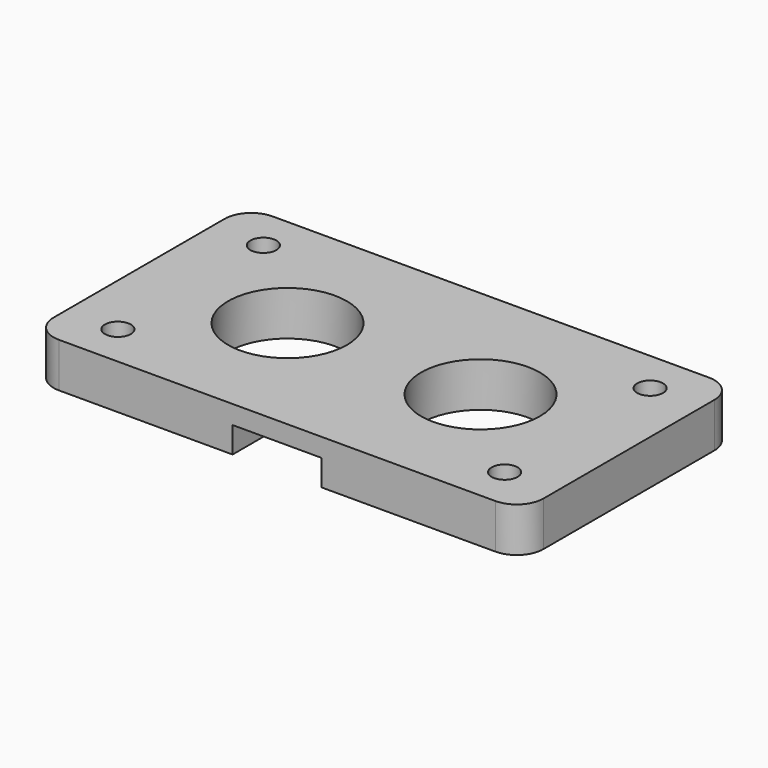
from build123d import *

# Parameters (mm, degrees)
F0_R     = 1.75
F0_R_2   = 8
F1_DEPTH = 6
F3_DEPTH = 3.5


with BuildPart() as f1:
    # F0 (on Top) → F1 (new body)
    with BuildSketch(Plane.XY):
        with BuildLine():
            ThreePointArc((33, 14.4), (31.945584, 16.945584), (29.4, 18))
            Line((29.4, 18), (-29.4, 18))
            ThreePointArc((-29.4, 18), (-31.945584, 16.945584), (-33, 14.4))
            Line((-33, 14.4), (-33, -14.4))
            ThreePointArc((-33, -14.4), (-31.945584, -16.945584), (-29.4, -18))
            Line((-29.4, -18), (29.4, -18))
            ThreePointArc((29.4, -18), (31.945584, -16.945584), (33, -14.4))
            Line((33, -14.4), (33, 14.4))
        make_face()
        with Locations((-26.05, -12.25)):
            Circle(F0_R, mode=Mode.SUBTRACT)
        with Locations((26.05, -12.25)):
            Circle(F0_R, mode=Mode.SUBTRACT)
        with Locations((-13, 0)):
            Circle(F0_R_2, mode=Mode.SUBTRACT)
        with Locations((-26.05, 12.25)):
            Circle(F0_R, mode=Mode.SUBTRACT)
        with Locations((13, 0)):
            Circle(F0_R_2, mode=Mode.SUBTRACT)
        with Locations((26.05, 12.25)):
            Circle(F0_R, mode=Mode.SUBTRACT)
    extrude(amount=F1_DEPTH)

    # F2 (on face) → F3 (cut)
    with BuildSketch(Plane.XY):
        with BuildLine():
            Line((-6, -18), (6, -18))
            Line((6, -18), (6, -5.8))
            ThreePointArc((6, -5.8), (5.648528, -4.951472), (4.8, -4.6))
            Line((4.8, -4.6), (-4.8, -4.6))
            ThreePointArc((-4.8, -4.6), (-5.648528, -4.951472), (-6, -5.8))
            Line((-6, -5.8), (-6, -18))
        make_face()
        with BuildLine():
            ThreePointArc((4.8, 4.6), (5.648528, 4.951472), (6, 5.8))
            Line((6, 5.8), (6, 18))
            Line((6, 18), (-6, 18))
            Line((-6, 18), (-6, 5.8))
            ThreePointArc((-6, 5.8), (-5.648528, 4.951472), (-4.8, 4.6))
            Line((-4.8, 4.6), (4.8, 4.6))
        make_face()
    extrude(amount=F3_DEPTH, mode=Mode.SUBTRACT)


solid = f1.part
